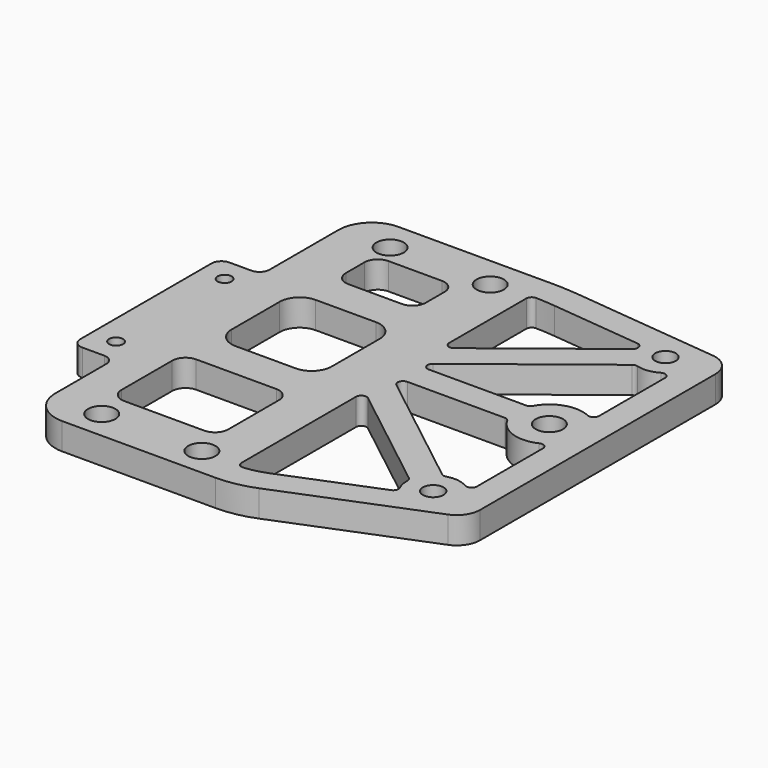
from build123d import *

# Parameters (mm, degrees)
SKETCH152_R     = 1.55
SKETCH152_R_2   = 2.05
SKETCH152_R_3   = 1.05
PAD060_DEPTH    = 4
POCKET075_DEPTH = 4.001
POCKET076_DEPTH = 4.001
FILLET004_R     = 0.8


with BuildPart() as part:
    # Sketch152 → Pad060 (new body)
    with BuildSketch(Plane.XY):
        with BuildLine():
            Line((-22, 28), (-45, 28))
            ThreePointArc((-45, 28), (-48.535534, 26.535534), (-50, 23))
            Line((-50, 23), (-50, 10.1))
            ThreePointArc((-51.5, 8.6), (-50.43934, 9.03934), (-50, 10.1))
            Line((-51.5, 8.6), (-54.8, 8.6))
            ThreePointArc((-54.8, 8.6), (-55.86066, 8.16066), (-56.3, 7.1))
            Line((-56.3, 7.1), (-56.3, -17.47))
            ThreePointArc((-56.3, -17.47), (-55.86066, -18.53066), (-54.8, -18.97))
            Line((-51.5, -18.97), (-54.8, -18.97))
            ThreePointArc((-50, -20.47), (-50.43934, -19.40934), (-51.5, -18.97))
            Line((-50, -20.47), (-50, -30))
            ThreePointArc((-50, -30), (-48.535534, -33.535534), (-45, -35))
            Line((-45, -35), (-22, -35))
            ThreePointArc((-22, -35), (-19.148569, -34.726484), (-16.401127, -33.915912))
            Line((-16.401127, -33.915912), (5.056404, -25.282774))
            ThreePointArc((5.056404, -25.282774), (6.650208, -23.995012), (7.25, -22.035728))
            Line((7.25, 22.035728), (7.25, -22.035728))
            ThreePointArc((7.25, 22.035728), (6.348838, 24.380092), (4.109405, 25.517226))
            Line((-17.892512, 27.788548), (4.109405, 25.517226))
            ThreePointArc((-17.892512, 27.788548), (-19.943537, 27.947102), (-22, 28))
        make_face()
        with Locations((0, 21.75)):
            Circle(SKETCH152_R, mode=Mode.SUBTRACT)
        with Locations((0, -21.75)):
            Circle(SKETCH152_R, mode=Mode.SUBTRACT)
        Circle(SKETCH152_R_2, mode=Mode.SUBTRACT)
        with Locations((-42.5, -30.7)):
            Circle(SKETCH152_R_2, mode=Mode.SUBTRACT)
        with Locations((-27.5, -30.7)):
            Circle(SKETCH152_R_2, mode=Mode.SUBTRACT)
        with Locations((-42.5, 23.3)):
            Circle(SKETCH152_R_2, mode=Mode.SUBTRACT)
        with Locations((-27.5, 23.3)):
            Circle(SKETCH152_R_2, mode=Mode.SUBTRACT)
        with Locations((-52.65, 5)):
            Circle(SKETCH152_R_3, mode=Mode.SUBTRACT)
        with Locations((-52.65, -15.32)):
            Circle(SKETCH152_R_3, mode=Mode.SUBTRACT)
    extrude(amount=PAD060_DEPTH)

    # Sketch153 (on Face31 of Pad060) → Pocket075 (cut, through all)
    with BuildSketch(Plane.XY.offset(4)):
        with BuildLine():
            Line((-42.5, -26.5), (-30.5, -26.5))
            ThreePointArc((-30.5, -26.5), (-29.085786, -25.914214), (-28.5, -24.5))
            Line((-28.5, -24.5), (-28.5, -15))
            ThreePointArc((-28.5, -15), (-29.085786, -13.585786), (-30.5, -13))
            Line((-30.5, -13), (-42.5, -13))
            ThreePointArc((-42.5, -13), (-43.914214, -13.585786), (-44.5, -15))
            Line((-44.5, -15), (-44.5, -24.5))
            ThreePointArc((-44.5, -24.5), (-43.914214, -25.914214), (-42.5, -26.5))
        make_face()
        with BuildLine():
            Line((-41, -7.5), (-32, -7.5))
            ThreePointArc((-32, -7.5), (-29.87868, -6.62132), (-29, -4.5))
            Line((-29, -4.5), (-29, 4.5))
            ThreePointArc((-29, 4.5), (-29.87868, 6.62132), (-32, 7.5))
            Line((-32, 7.5), (-41, 7.5))
            ThreePointArc((-41, 7.5), (-43.12132, 6.62132), (-44, 4.5))
            Line((-44, 4.5), (-44, -4.5))
            ThreePointArc((-44, -4.5), (-43.12132, -6.62132), (-41, -7.5))
        make_face()
        with BuildLine():
            Line((-40.5, 13), (-32.5, 13))
            ThreePointArc((-32.5, 13), (-31.085786, 13.585786), (-30.5, 15))
            Line((-30.5, 15), (-30.5, 18.5))
            ThreePointArc((-30.5, 18.5), (-31.085786, 19.914214), (-32.5, 20.5))
            Line((-32.5, 20.5), (-40.5, 20.5))
            ThreePointArc((-40.5, 20.5), (-41.914214, 19.914214), (-42.5, 18.5))
            Line((-42.5, 18.5), (-42.5, 15))
            ThreePointArc((-42.5, 15), (-41.914214, 13.585786), (-40.5, 13))
        make_face()
    extrude(amount=-POCKET075_DEPTH, mode=Mode.SUBTRACT)

    # Sketch154 (on Face5 of Pocket075) → Pocket076 (cut, through all)
    with BuildSketch(Plane.XY.offset(4)):
        with BuildLine():
            ThreePointArc((-4.582576, -2), (-1.119662, -4.873023), (3.25, -3.799671))
            Line((3.25, -3.799671), (3.25, -19.418155))
            ThreePointArc((3.25, -19.418155), (1.115199, -17.908603), (-1.49608, -18.040317))
            Line((-1.49608, -18.040317), (-22, -2))
            Line((-22, -2), (-4.582576, -2))
        make_face()
        with BuildLine():
            ThreePointArc((-3.957905, 22.32878), (-3.999988, 21.759892), (-3.960719, 21.190802))
            Line((-22, 7.078584), (-3.960719, 21.190802))
            Line((-22, 24), (-22, 7.078584))
            ThreePointArc((-18.303261, 23.809693), (-20.149183, 23.952392), (-22, 24))
            Line((-3.957905, 22.32878), (-18.303261, 23.809693))
        make_face()
        with BuildLine():
            Line((3.25, 19.418155), (3.25, 3.799671))
            ThreePointArc((3.25, 3.799671), (-1.119662, 4.873023), (-4.582576, 2))
            Line((-22, 2), (-4.582576, 2))
            Line((-1.49608, 18.040317), (-22, 2))
            ThreePointArc((-1.49608, 18.040317), (1.115199, 17.908603), (3.25, 19.418155))
        make_face()
        with BuildLine():
            Line((-17.89416, -30.205002), (-3.115319, -24.258942))
            ThreePointArc((-3.960719, -21.190802), (-3.856287, -22.812568), (-3.115319, -24.258942))
            Line((-3.960719, -21.190802), (-22, -7.078584))
            Line((-22, -7.078584), (-22, -31))
            ThreePointArc((-22, -31), (-19.908951, -30.799422), (-17.89416, -30.205002))
        make_face()
    extrude(amount=-POCKET076_DEPTH, mode=Mode.SUBTRACT)

    # Fillet004
    fillet004_edges = [part.edges().sort_by_distance(p)[0] for p in [
        (-22, -7.078584, 2),
        (-22, -2, 2),
        (-3.960719, -21.190802, 2),
        (-3.115319, -24.258942, 2),
        (-22, -31, 2),
        (-22, 2, 2),
        (-1.49608, 18.040317, 2),
        (3.25, 19.418155, 2),
        (-4.582576, 2, 2),
        (3.25, 3.799671, 2),
        (-22, 7.078584, 2),
        (-22, 24, 2),
        (-3.957905, 22.32878, 2),
        (-3.960719, 21.190802, 2),
        (3.25, -3.799671, 2),
        (-4.582576, -2, 2),
        (-1.49608, -18.040317, 2),
        (3.25, -19.418155, 2),
    ]]
    fillet(fillet004_edges, radius=FILLET004_R)


with BuildPart() as part_1:
    # Body022 placement: moved
    add(part.part.moved(Location((0, 0, 8.1))))


solid = part_1.part
